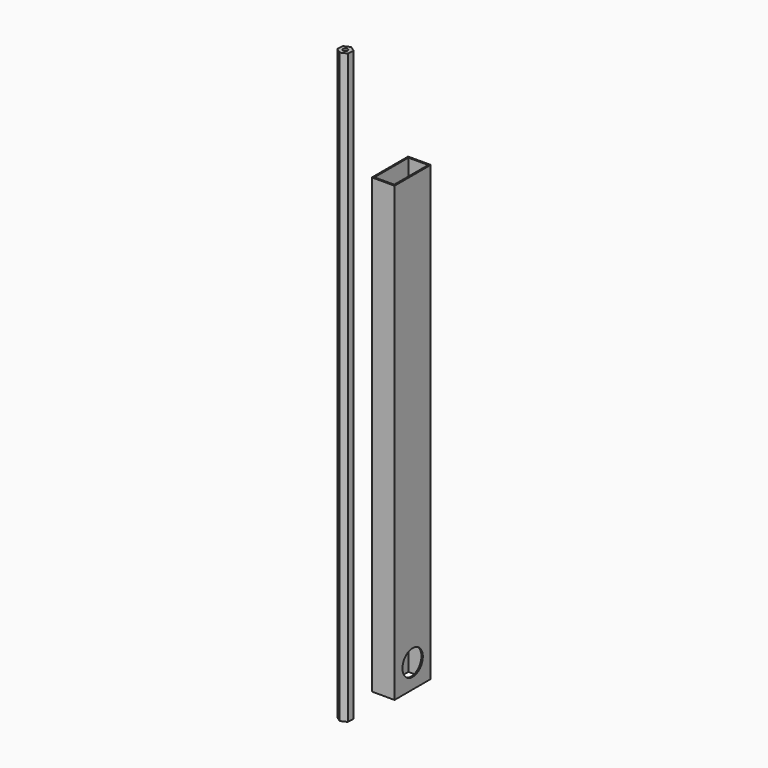
from build123d import *

# Parameters (mm, degrees)
F0_W     = 25.4
F0_H     = 50.8
F0_W_2   = 22.225
F0_H_2   = 47.625
F1_DEPTH = 508
F2_R     = 14.2875
F3_DEPTH = 25.4
F4_R     = 2.5527
F5_DEPTH = 660.4


with BuildPart() as f1:
    # F0 (on Top) → F1 (new body)
    with BuildSketch(Plane.XY):
        with Locations((-50.254215, 56.140824)):
            Rectangle(F0_W, F0_H)
        with Locations((-50.254215, 56.140824)):
            Rectangle(F0_W_2, F0_H_2, mode=Mode.SUBTRACT)
    extrude(amount=F1_DEPTH)

    # F2 (on face) → F3 (cut, through all)
    with BuildSketch(Plane(origin=(-62.954215, 0, 0), x_dir=(0, -1, 0), z_dir=(-1, 0, 0))):
        with Locations((-56.140824, 26.67)):
            Circle(F2_R)
    extrude(amount=-F3_DEPTH, mode=Mode.SUBTRACT)


with BuildPart() as f5:
    # F4 (on Top) → F5 (new body)
    with BuildSketch(Plane.XY):
        Polygon((-50.123066, -30.51553), (-43.502979, -27.363105), (-42.923016, -20.053729), (-48.963139, -15.896778), (-55.583226, -19.049203), (-56.16319, -26.358579), align=None)
        with Locations((-49.543103, -23.206154)):
            Circle(F4_R, mode=Mode.SUBTRACT)
    extrude(amount=F5_DEPTH)


solid = Compound([f1.part, f5.part])
